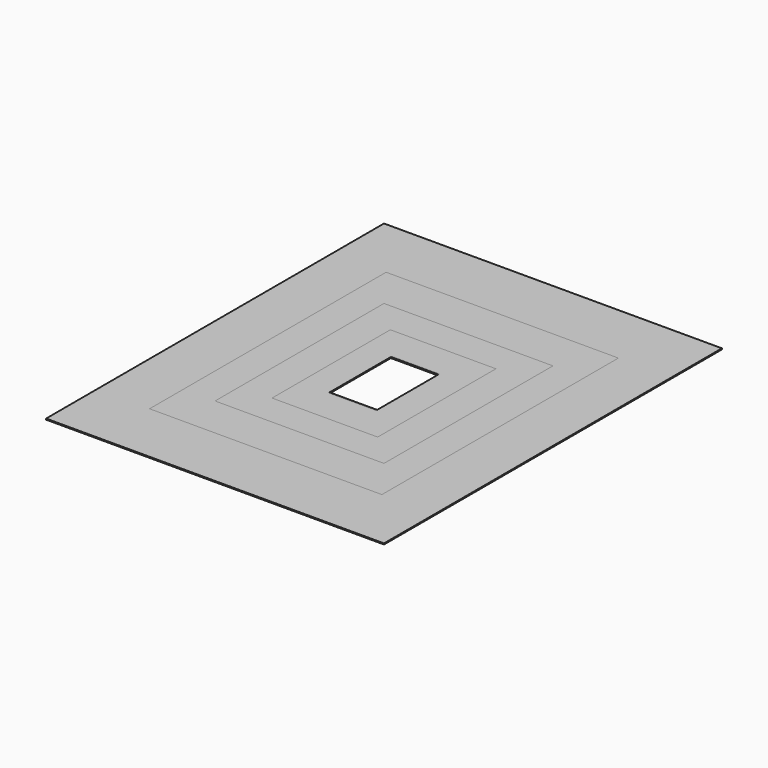
from build123d import *

# Parameters (mm, degrees)
F0_W     = 406.4
F0_H     = 508
F0_W_2   = 276.225
F0_H_2   = 352.425
F5_DEPTH = 1.23698
F1_W     = 279.4
F1_H     = 355.6
F1_W_2   = 200.025
F1_H_2   = 250.825
F2_W     = 203.2
F2_H     = 254
F2_W_2   = 123.825
F2_H_2   = 174.625
F4_W     = 127
F4_H     = 177.8
F4_W_2   = 60.325
F4_H_2   = 92.075
F3_W     = 127
F3_H     = 177.8
F3_W_2   = 57.15
F3_H_2   = 95.25


with BuildPart() as f5:
    # F0 (on Top) → F5 (new body)
    with BuildSketch(Plane.XY):
        Rectangle(F0_W, F0_H)
        Rectangle(F0_W_2, F0_H_2, mode=Mode.SUBTRACT)
    extrude(amount=F5_DEPTH)


with BuildPart() as f5b:
    # F1 (on Top) → F5, piece 2 (new body)
    with BuildSketch(Plane.XY):
        Rectangle(F1_W, F1_H)
        Rectangle(F1_W_2, F1_H_2, mode=Mode.SUBTRACT)
    extrude(amount=F5_DEPTH)


with BuildPart() as f5c:
    # F2 (on Top) → F5, piece 3 (new body)
    with BuildSketch(Plane.XY):
        Rectangle(F2_W, F2_H)
        Rectangle(F2_W_2, F2_H_2, mode=Mode.SUBTRACT)
    extrude(amount=F5_DEPTH)


with BuildPart() as f5d:
    # F4 (on Top) → F5, piece 4 (new body)
    with BuildSketch(Plane.XY):
        Rectangle(F4_W, F4_H)
        Rectangle(F4_W_2, F4_H_2, mode=Mode.SUBTRACT)
    extrude(amount=F5_DEPTH)


with BuildPart() as f5e:
    # F3 (on Top) → F5, piece 5 (new body)
    with BuildSketch(Plane.XY):
        Rectangle(F3_W, F3_H)
        Rectangle(F3_W_2, F3_H_2, mode=Mode.SUBTRACT)
    extrude(amount=F5_DEPTH)


solid = Compound([f5.part, f5b.part, f5c.part, f5d.part, f5e.part])
